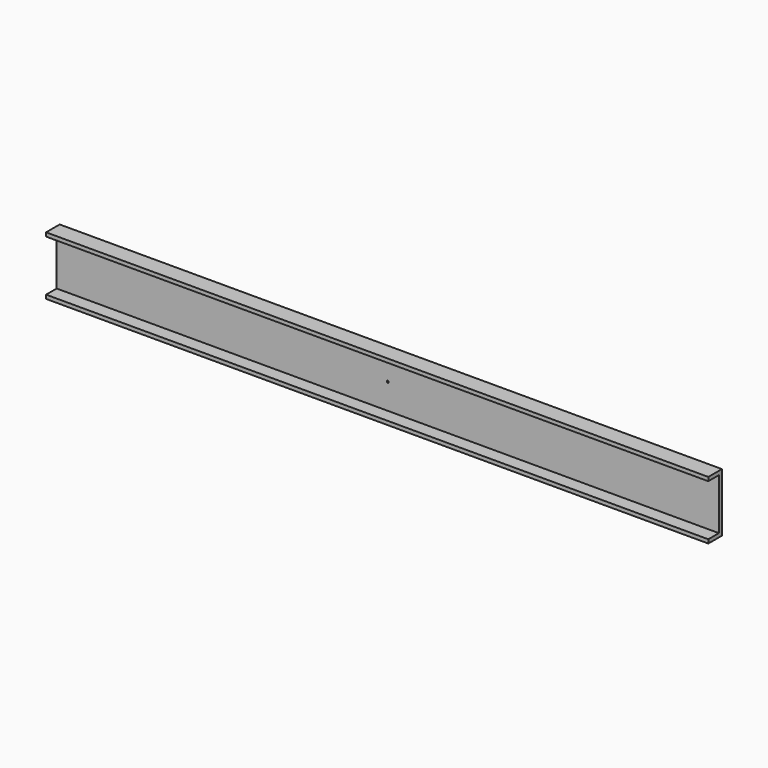
from build123d import *

# Parameters (mm, degrees)
F0_R     = 0.5
F1_DEPTH = 2
F2_W     = 350
F2_H     = 2
F3_DEPTH = 7
F6_DEPTH = 2


with BuildPart() as f1:
    # F0 (on Front) → F1 (new body)
    with BuildSketch(Plane.XZ):
        Polygon((175, 13.5), (-175, 13.5), (-175, 11.5), (-175, -15.5), (-175, -17.5), (175, -17.5), (175, -15.5), (175, 11.5), align=None)
        with Locations((0, -2)):
            Circle(F0_R, mode=Mode.SUBTRACT)
    extrude(amount=F1_DEPTH)

    # F2 (on face) → F3 (join)
    with BuildSketch(Plane.XZ.offset(2)):
        with Locations((0, 12.5)):
            Rectangle(F2_W, F2_H)
        with Locations((0, -16.5)):
            Rectangle(F2_W, F2_H)
    extrude(amount=F3_DEPTH)

    # F0 (on Front) → F6 (cut)
    with BuildSketch(Plane.XZ):
        Polygon((175, 13.5), (-175, 13.5), (-175, 11.5), (-175, -15.5), (-175, -17.5), (175, -17.5), (175, -15.5), (175, 11.5), align=None)
        with Locations((0, -2)):
            Circle(F0_R, mode=Mode.SUBTRACT)
    extrude(amount=-F6_DEPTH, mode=Mode.SUBTRACT)


with BuildPart() as f4_1:
    # F4: copy of F1
    add(f1.part)


solid = f1.part
